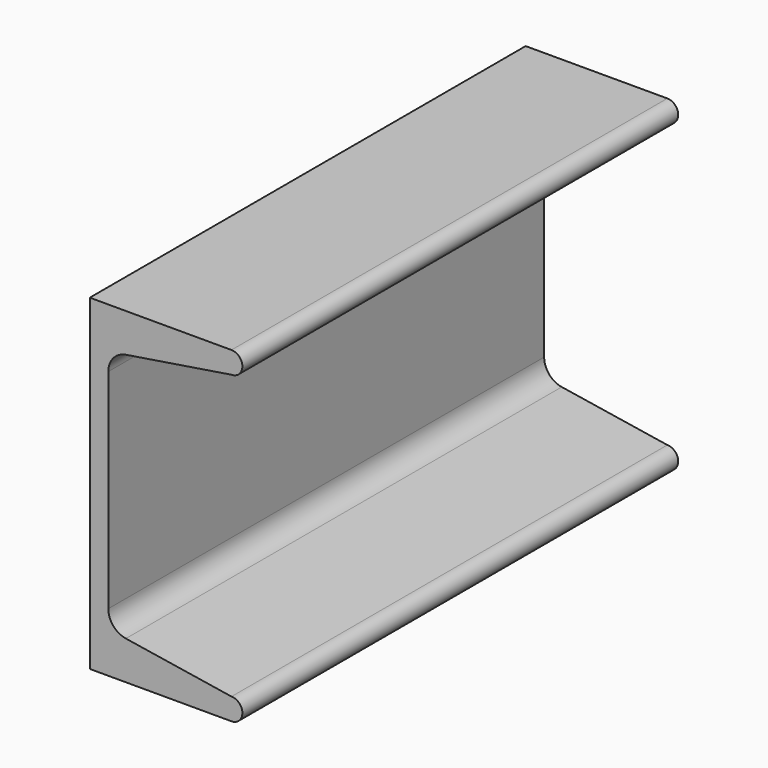
from build123d import *

# Parameters (mm, degrees)
F1_DEPTH = 127


with BuildPart() as f1:
    # F0 (on Front) → F1 (new body)
    with BuildSketch(Plane.XZ):
        with BuildLine():
            Line((4.318, 0), (4.318, 24.329558))
            ThreePointArc((4.318, 24.329558), (5.480366, 27.48029), (8.410474, 29.121229))
            Line((8.410474, 29.121229), (33.026342, 33.02))
            ThreePointArc((33.026342, 33.02), (35.566342, 35.56), (33.026342, 38.1))
            Line((33.026342, 38.1), (0, 38.1))
            Line((0, 38.1), (0, 0))
            Line((0, 0), (0, -38.1))
            Line((0, -38.1), (33.026342, -38.1))
            ThreePointArc((33.026342, -38.1), (35.566342, -35.56), (33.026342, -33.02))
            Line((33.026342, -33.02), (8.410474, -29.121229))
            ThreePointArc((8.410474, -29.121229), (5.480366, -27.48029), (4.318, -24.329558))
            Line((4.318, -24.329558), (4.318, 0))
        make_face()
    extrude(amount=F1_DEPTH)


solid = f1.part
